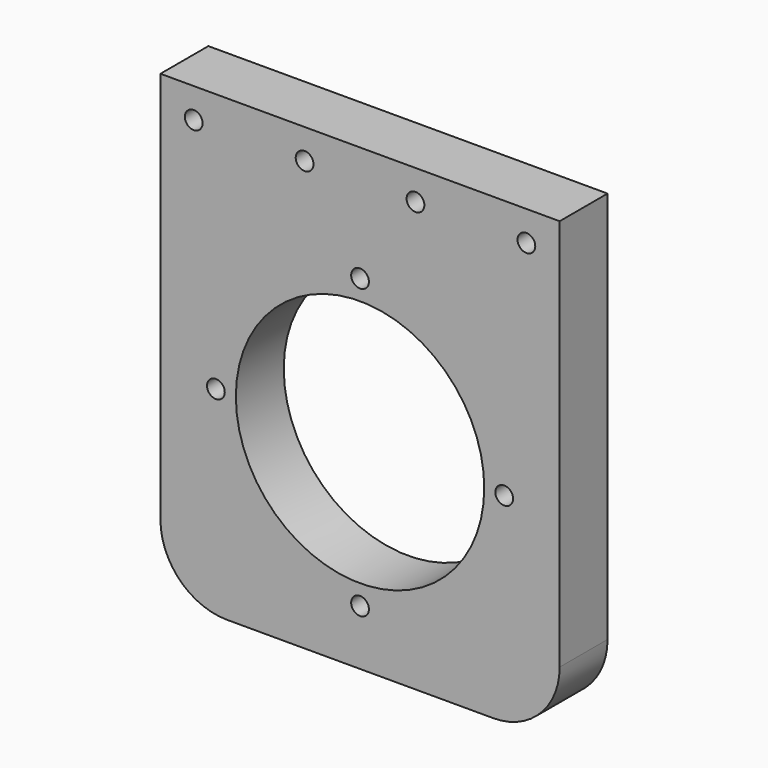
from build123d import *

# Parameters (mm, degrees)
F0_R     = 4
F0_R_2   = 56
F1_DEPTH = 13.5


with BuildPart() as f1:
    # F0 (on Front) → F1 (new body, symmetric)
    with BuildSketch(Plane.XZ):
        with BuildLine():
            ThreePointArc((-90, -150), (-81.213203, -171.213203), (-60, -180))
            Line((-60, -180), (60, -180))
            ThreePointArc((60, -180), (81.213203, -171.213203), (90, -150))
            Line((90, -150), (90, 27))
            Line((90, 27), (-90, 27))
            Line((-90, 27), (-90, -150))
        make_face()
        with Locations((-65, -90)):
            Circle(F0_R, mode=Mode.SUBTRACT)
        with Locations((0, -155)):
            Circle(F0_R, mode=Mode.SUBTRACT)
        with Locations((0, -90)):
            Circle(F0_R_2, mode=Mode.SUBTRACT)
        with Locations((65, -90)):
            Circle(F0_R, mode=Mode.SUBTRACT)
        with Locations((-75, 13.5)):
            Circle(F0_R, mode=Mode.SUBTRACT)
        with Locations((-25, 13.5)):
            Circle(F0_R, mode=Mode.SUBTRACT)
        with Locations((0, -25)):
            Circle(F0_R, mode=Mode.SUBTRACT)
        with Locations((25, 13.5)):
            Circle(F0_R, mode=Mode.SUBTRACT)
        with Locations((75, 13.5)):
            Circle(F0_R, mode=Mode.SUBTRACT)
    extrude(amount=F1_DEPTH, both=True)


solid = f1.part
